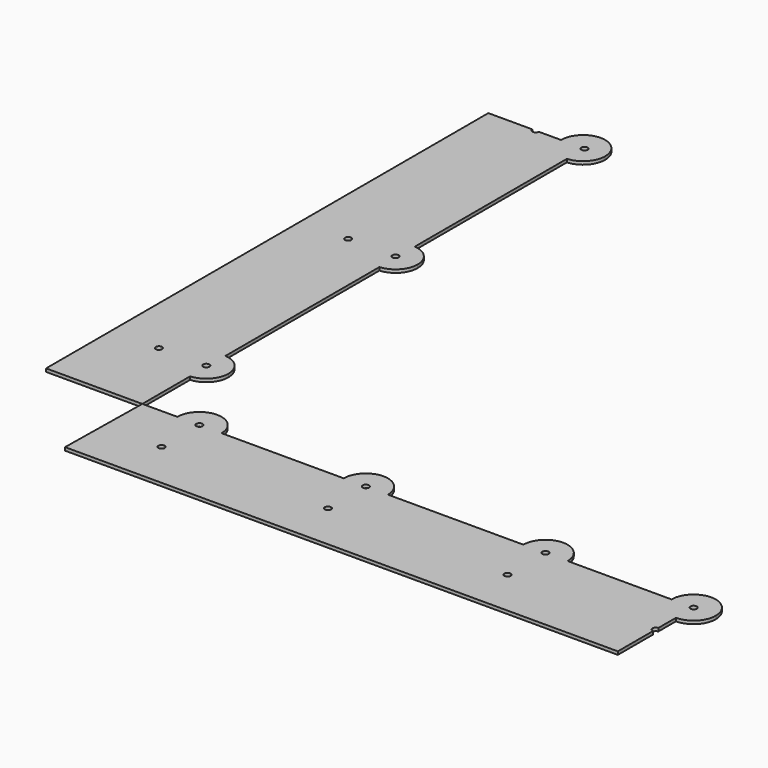
from build123d import *

# Parameters (mm, degrees)
F1_DEPTH = 1


with BuildPart() as f1:
    # F0 (on Top) → F1 (new body)
    with BuildSketch(Plane.XY):
        with BuildLine():
            ThreePointArc((182, 0), (175, 7), (168, 0))
            Line((168, 0), (174, 0))
            ThreePointArc((174, 0), (175, 1), (176, 0))
            ThreePointArc((176, 0), (175.7071067812, -0.7071067812), (175, -1))
            Line((175, -1), (175, -7))
            ThreePointArc((175, -7), (179.9497474683, -4.9497474683), (182, 0))
        make_face()
        with BuildLine():
            Line((19.55, 0), (25.55, 0))
            ThreePointArc((25.55, 0), (18.55, 7), (11.55, 0))
            Line((11.55, 0), (17.55, 0))
            ThreePointArc((17.55, 0), (18.55, 1), (19.55, 0))
        make_face()
        with BuildLine():
            ThreePointArc((78.225, 0), (71.225, 7), (64.225, 0))
            Line((64.225, 0), (70.225, 0))
            ThreePointArc((70.225, 0), (71.225, 1), (72.225, 0))
            Line((72.225, 0), (78.225, 0))
        make_face()
        with BuildLine():
            ThreePointArc((135.1, 0), (128.1, 7), (121.1, 0))
            Line((121.1, 0), (127.1, 0))
            ThreePointArc((127.1, 0), (128.1, 1), (129.1, 0))
            Line((129.1, 0), (135.1, 0))
        make_face()
        with BuildLine():
            Line((174, 0), (168, 0))
            ThreePointArc((168, 0), (170.0502525317, -4.9497474683), (175, -7))
            Line((175, -7), (175, -1))
            ThreePointArc((175, -1), (174.2928932188, -0.7071067812), (174, 0))
        make_face()
        with BuildLine():
            Line((17.55, -15), (0.2308085532, -15))
            Line((0.2308085532, -15), (0, -30))
            Line((0, -30), (18.55, -30))
            Line((18.55, -30), (18.55, -16))
            ThreePointArc((18.55, -16), (17.8428932188, -15.7071067812), (17.55, -15))
        make_face()
        with BuildLine():
            ThreePointArc((18.55, -7), (13.6002525317, -4.9497474683), (11.55, 0))
            Line((11.55, 0), (0.4616171063, 0))
            Line((0.4616171063, 0), (0.2308085532, -15))
            Line((0.2308085532, -15), (17.55, -15))
            ThreePointArc((17.55, -15), (17.8428932188, -14.2928932188), (18.55, -14))
            Line((18.55, -14), (18.55, -7))
        make_face()
        with BuildLine():
            Line((17.55, 0), (11.55, 0))
            ThreePointArc((11.55, 0), (13.6002525317, -4.9497474683), (18.55, -7))
            Line((18.55, -7), (18.55, -1))
            ThreePointArc((18.55, -1), (17.8428932188, -0.7071067812), (17.55, 0))
        make_face()
        with BuildLine():
            ThreePointArc((18.55, -7), (23.4997474683, -4.9497474683), (25.55, 0))
            Line((25.55, 0), (19.55, 0))
            ThreePointArc((19.55, 0), (19.2571067812, -0.7071067812), (18.55, -1))
            Line((18.55, -1), (18.55, -7))
        make_face()
        with BuildLine():
            Line((70.225, 0), (64.225, 0))
            ThreePointArc((64.225, 0), (66.2752525317, -4.9497474683), (71.225, -7))
            Line((71.225, -7), (71.225, -1))
            ThreePointArc((71.225, -1), (70.5178932188, -0.7071067812), (70.225, 0))
        make_face()
        with BuildLine():
            ThreePointArc((71.225, -7), (76.1747474683, -4.9497474683), (78.225, 0))
            Line((78.225, 0), (72.225, 0))
            ThreePointArc((72.225, 0), (71.9321067812, -0.7071067812), (71.225, -1))
            Line((71.225, -1), (71.225, -7))
        make_face()
        with BuildLine():
            Line((127.1, 0), (121.1, 0))
            ThreePointArc((121.1, 0), (123.1502525317, -4.9497474683), (128.1, -7))
            Line((128.1, -7), (128.1, -1))
            ThreePointArc((128.1, -1), (127.3928932188, -0.7071067812), (127.1, 0))
        make_face()
        with BuildLine():
            ThreePointArc((128.1, -7), (133.0497474683, -4.9497474683), (135.1, 0))
            Line((135.1, 0), (129.1, 0))
            ThreePointArc((129.1, 0), (128.8071067812, -0.7071067812), (128.1, -1))
            Line((128.1, -1), (128.1, -7))
        make_face()
        with BuildLine():
            Line((174, -15), (129.1, -15))
            ThreePointArc((129.1, -15), (128.8071067812, -15.7071067812), (128.1, -16))
            Line((128.1, -16), (128.1, -30))
            Line((128.1, -30), (175, -30))
            Line((175, -30), (175, -16))
            ThreePointArc((175, -16), (174.2928932188, -15.7071067812), (174, -15))
        make_face()
        with BuildLine():
            Line((70.225, -15), (19.55, -15))
            ThreePointArc((19.55, -15), (19.2571067812, -15.7071067812), (18.55, -16))
            Line((18.55, -16), (18.55, -30))
            Line((18.55, -30), (71.225, -30))
            Line((71.225, -30), (71.225, -16))
            ThreePointArc((71.225, -16), (70.5178932188, -15.7071067812), (70.225, -15))
        make_face()
        with BuildLine():
            Line((127.1, -15), (72.225, -15))
            ThreePointArc((72.225, -15), (71.9321067812, -15.7071067812), (71.225, -16))
            Line((71.225, -16), (71.225, -30))
            Line((71.225, -30), (128.1, -30))
            Line((128.1, -30), (128.1, -16))
            ThreePointArc((128.1, -16), (127.3928932188, -15.7071067812), (127.1, -15))
        make_face()
        with BuildLine():
            Line((168, 0), (135.1, 0))
            ThreePointArc((135.1, 0), (133.0497474683, -4.9497474683), (128.1, -7))
            Line((128.1, -7), (128.1, -14))
            ThreePointArc((128.1, -14), (128.8071067812, -14.2928932188), (129.1, -15))
            Line((129.1, -15), (174, -15))
            ThreePointArc((174, -15), (174.2928932188, -14.2928932188), (175, -14))
            Line((175, -14), (175, -7))
            ThreePointArc((175, -7), (170.0502525317, -4.9497474683), (168, 0))
        make_face()
        with BuildLine():
            Line((64.225, 0), (25.55, 0))
            ThreePointArc((25.55, 0), (23.4997474683, -4.9497474683), (18.55, -7))
            Line((18.55, -7), (18.55, -14))
            ThreePointArc((18.55, -14), (19.2571067812, -14.2928932188), (19.55, -15))
            Line((19.55, -15), (70.225, -15))
            ThreePointArc((70.225, -15), (70.5178932188, -14.2928932188), (71.225, -14))
            Line((71.225, -14), (71.225, -7))
            ThreePointArc((71.225, -7), (66.2752525317, -4.9497474683), (64.225, 0))
        make_face()
        with BuildLine():
            Line((121.1, 0), (78.225, 0))
            ThreePointArc((78.225, 0), (76.1747474683, -4.9497474683), (71.225, -7))
            Line((71.225, -7), (71.225, -14))
            ThreePointArc((71.225, -14), (71.9321067812, -14.2928932188), (72.225, -15))
            Line((72.225, -15), (127.1, -15))
            ThreePointArc((127.1, -15), (127.3928932188, -14.2928932188), (128.1, -14))
            Line((128.1, -14), (128.1, -7))
            ThreePointArc((128.1, -7), (123.1502525317, -4.9497474683), (121.1, 0))
        make_face()
    extrude(amount=F1_DEPTH)


with BuildPart() as f1b:
    # F0 (on Top) → F1, piece 2 (new body)
    with BuildSketch(Plane.XY):
        with BuildLine():
            Line((0.4616171063, 174), (0.4616171063, 168.0152373235))
            ThreePointArc((0.4616171063, 168.0152373235), (5.1103483122, 170.2162420496), (7, 175))
            ThreePointArc((7, 175), (0, 182), (-7, 175))
            Line((-7, 175), (-0.5383828937, 175))
            ThreePointArc((-0.5383828937, 175), (0.4616171063, 176), (1.4616171063, 175))
            ThreePointArc((1.4616171063, 175), (1.1687238875, 174.2928932188), (0.4616171063, 174))
        make_face()
        with BuildLine():
            Line((0.4616171063, 25.0129207211), (0.4616171063, 18.9152373235))
            ThreePointArc((0.4616171063, 18.9152373235), (5.1103483122, 21.1162420496), (7, 25.9))
            ThreePointArc((7, 25.9), (5.1103483122, 30.6837579504), (0.4616171063, 32.8847626765))
            Line((0.4616171063, 32.8847626765), (0.4616171063, 26.7870792789))
            ThreePointArc((0.4616171063, 26.7870792789), (0.8548734135, 26.4188366283), (1, 25.9))
            ThreePointArc((1, 25.9), (0.8548734135, 25.3811633717), (0.4616171063, 25.0129207211))
        make_face()
        with BuildLine():
            Line((0.4616171063, 99.9129207211), (0.4616171063, 93.8152373235))
            ThreePointArc((0.4616171063, 93.8152373235), (5.1103483122, 96.0162420496), (7, 100.8))
            ThreePointArc((7, 100.8), (5.1103483122, 105.5837579504), (0.4616171063, 107.7847626765))
            Line((0.4616171063, 107.7847626765), (0.4616171063, 101.6870792789))
            ThreePointArc((0.4616171063, 101.6870792789), (0.8548734135, 101.3188366283), (1, 100.8))
            ThreePointArc((1, 100.8), (0.8548734135, 100.2811633717), (0.4616171063, 99.9129207211))
        make_face()
        with BuildLine():
            ThreePointArc((-7, 175), (-4.7837579504, 169.8896516878), (0.4616171063, 168.0152373235))
            Line((0.4616171063, 168.0152373235), (0.4616171063, 174))
            ThreePointArc((0.4616171063, 174), (-0.2454896748, 174.2928932188), (-0.5383828937, 175))
            Line((-0.5383828937, 175), (-7, 175))
        make_face()
        with BuildLine():
            Line((-30, 0), (-15, 0))
            Line((-15, 0), (-15, 24.9))
            ThreePointArc((-15, 24.9), (-15.7071067812, 25.1928932188), (-16, 25.9))
            Line((-16, 25.9), (-30, 25.9))
            Line((-30, 25.9), (-30, 0))
        make_face()
        with BuildLine():
            ThreePointArc((0.4616171063, 32.8847626765), (-4.7837579504, 31.0103483122), (-7, 25.9))
            Line((-7, 25.9), (-1, 25.9))
            ThreePointArc((-1, 25.9), (-0.5188366283, 26.7548734135), (0.4616171063, 26.7870792789))
            Line((0.4616171063, 26.7870792789), (0.4616171063, 32.8847626765))
        make_face()
        with BuildLine():
            Line((-15, 0), (0.4616171063, 0))
            Line((0.4616171063, 0), (0.4616171063, 18.9152373235))
            ThreePointArc((0.4616171063, 18.9152373235), (-4.7837579504, 20.7896516878), (-7, 25.9))
            Line((-7, 25.9), (-14, 25.9))
            ThreePointArc((-14, 25.9), (-14.2928932188, 25.1928932188), (-15, 24.9))
            Line((-15, 24.9), (-15, 0))
        make_face()
        with BuildLine():
            ThreePointArc((-7, 25.9), (-4.7837579504, 20.7896516878), (0.4616171063, 18.9152373235))
            Line((0.4616171063, 18.9152373235), (0.4616171063, 25.0129207211))
            ThreePointArc((0.4616171063, 25.0129207211), (-0.5188366283, 25.0451265865), (-1, 25.9))
            Line((-1, 25.9), (-7, 25.9))
        make_face()
        with BuildLine():
            ThreePointArc((0.4616171063, 107.7847626765), (-4.7837579504, 105.9103483122), (-7, 100.8))
            Line((-7, 100.8), (-1, 100.8))
            ThreePointArc((-1, 100.8), (-0.5188366283, 101.6548734135), (0.4616171063, 101.6870792789))
            Line((0.4616171063, 101.6870792789), (0.4616171063, 107.7847626765))
        make_face()
        with BuildLine():
            ThreePointArc((-7, 100.8), (-4.7837579504, 95.6896516878), (0.4616171063, 93.8152373235))
            Line((0.4616171063, 93.8152373235), (0.4616171063, 99.9129207211))
            ThreePointArc((0.4616171063, 99.9129207211), (-0.5188366283, 99.9451265865), (-1, 100.8))
            Line((-1, 100.8), (-7, 100.8))
        make_face()
        with BuildLine():
            Line((-30, 175), (-30, 100.8))
            Line((-30, 100.8), (-16, 100.8))
            ThreePointArc((-16, 100.8), (-15.7071067812, 101.5071067812), (-15, 101.8))
            Line((-15, 101.8), (-15, 174))
            ThreePointArc((-15, 174), (-15.7071067812, 174.2928932188), (-16, 175))
            Line((-16, 175), (-30, 175))
        make_face()
        with BuildLine():
            Line((-30, 25.9), (-16, 25.9))
            ThreePointArc((-16, 25.9), (-15.7071067812, 26.6071067812), (-15, 26.9))
            Line((-15, 26.9), (-15, 99.8))
            ThreePointArc((-15, 99.8), (-15.7071067812, 100.0928932188), (-16, 100.8))
            Line((-16, 100.8), (-30, 100.8))
            Line((-30, 100.8), (-30, 25.9))
        make_face()
        with BuildLine():
            Line((-14, 100.8), (-7, 100.8))
            ThreePointArc((-7, 100.8), (-4.7837579504, 105.9103483122), (0.4616171063, 107.7847626765))
            Line((0.4616171063, 107.7847626765), (0.4616171063, 168.0152373235))
            ThreePointArc((0.4616171063, 168.0152373235), (-4.7837579504, 169.8896516878), (-7, 175))
            Line((-7, 175), (-14, 175))
            ThreePointArc((-14, 175), (-14.2928932188, 174.2928932188), (-15, 174))
            Line((-15, 174), (-15, 101.8))
            ThreePointArc((-15, 101.8), (-14.2928932188, 101.5071067812), (-14, 100.8))
        make_face()
        with BuildLine():
            Line((-14, 25.9), (-7, 25.9))
            ThreePointArc((-7, 25.9), (-4.7837579504, 31.0103483122), (0.4616171063, 32.8847626765))
            Line((0.4616171063, 32.8847626765), (0.4616171063, 93.8152373235))
            ThreePointArc((0.4616171063, 93.8152373235), (-4.7837579504, 95.6896516878), (-7, 100.8))
            Line((-7, 100.8), (-14, 100.8))
            ThreePointArc((-14, 100.8), (-14.2928932188, 100.0928932188), (-15, 99.8))
            Line((-15, 99.8), (-15, 26.9))
            ThreePointArc((-15, 26.9), (-14.2928932188, 26.6071067812), (-14, 25.9))
        make_face()
    extrude(amount=F1_DEPTH)


solid = Compound([f1.part, f1b.part])
